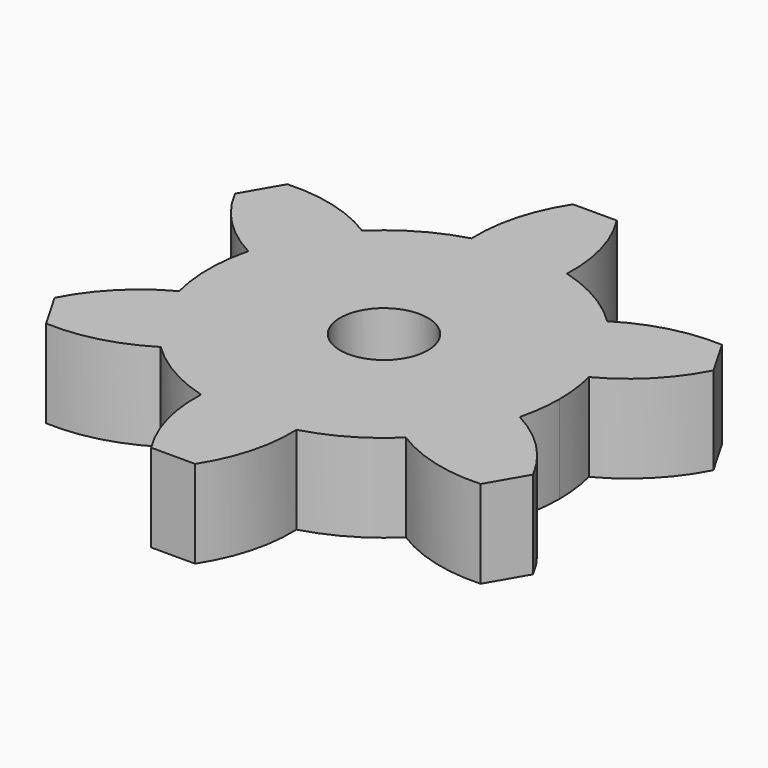
from build123d import *

# Parameters (mm, degrees)
F1_DEPTH = 2
F2_R     = 1
F3_DEPTH = 2.001


with BuildPart() as f1:
    # F0 (on Top) → F1 (new body)
    with BuildSketch(Plane.XY):
        with BuildLine():
            ThreePointArc((3.877013, -0.984261), (3.969134, -0.495958), (4, 0))
            ThreePointArc((4, 0), (3.969134, 0.495958), (3.877013, 0.984261))
            ThreePointArc((3.877013, 0.984261), (3.464102, 2), (2.790902, 2.865461))
            ThreePointArc((2.790902, 2.865461), (2, 3.464102), (1.086111, 3.849722))
            ThreePointArc((1.086111, 3.849722), (0.548229, 3.962252), (0, 4))
            ThreePointArc((0, 4), (-0.548229, 3.962252), (-1.086111, 3.849722))
            ThreePointArc((-1.086111, 3.849722), (-2, 3.464102), (-2.790902, 2.865461))
            ThreePointArc((-2.790902, 2.865461), (-3.464102, 2), (-3.877013, 0.984261))
            ThreePointArc((-3.877013, 0.984261), (-4, 0), (-3.877013, -0.984261))
            ThreePointArc((-3.877013, -0.984261), (-3.464102, -2), (-2.790902, -2.865461))
            ThreePointArc((-2.790902, -2.865461), (-2, -3.464102), (-1.086111, -3.849722))
            ThreePointArc((-1.086111, -3.849722), (0, -4), (1.086111, -3.849722))
            ThreePointArc((1.086111, -3.849722), (2, -3.464102), (2.790902, -2.865461))
            ThreePointArc((2.790902, -2.865461), (3.464102, -2), (3.877013, -0.984261))
        make_face()
        with BuildLine():
            ThreePointArc((2.790902, 2.865461), (3.464102, 2), (3.877013, 0.984261))
            ThreePointArc((3.877013, 0.984261), (4.783962, 1.654296), (5.446152, 2.566987))
            Line((5.446152, 2.566987), (5.196152, 3))
            Line((5.196152, 3), (4.946152, 3.433013))
            ThreePointArc((4.946152, 3.433013), (3.824643, 3.315885), (2.790902, 2.865461))
        make_face()
        with BuildLine():
            ThreePointArc((5.446152, -2.566987), (4.783962, -1.654296), (3.877013, -0.984261))
            ThreePointArc((3.877013, -0.984261), (3.464102, -2), (2.790902, -2.865461))
            ThreePointArc((2.790902, -2.865461), (3.824643, -3.315885), (4.946152, -3.433013))
            Line((4.946152, -3.433013), (5.196152, -3))
            Line((5.196152, -3), (5.446152, -2.566987))
        make_face()
        with BuildLine():
            ThreePointArc((0, 4), (0.548229, 3.962252), (1.086111, 3.849722))
            ThreePointArc((1.086111, 3.849722), (0.959319, 4.97018), (0.5, 6))
            Line((0.5, 6), (0, 6))
            Line((0, 6), (0, 4))
        make_face()
        with BuildLine():
            ThreePointArc((0.5, -6), (0.959319, -4.97018), (1.086111, -3.849722))
            ThreePointArc((1.086111, -3.849722), (0, -4), (-1.086111, -3.849722))
            ThreePointArc((-1.086111, -3.849722), (-0.959319, -4.97018), (-0.5, -6))
            Line((-0.5, -6), (0, -6))
            Line((0, -6), (0.5, -6))
        make_face()
        with BuildLine():
            ThreePointArc((-1.086111, 3.849722), (-0.548229, 3.962252), (0, 4))
            Line((0, 4), (0, 6))
            Line((0, 6), (-0.5, 6))
            ThreePointArc((-0.5, 6), (-0.959319, 4.97018), (-1.086111, 3.849722))
        make_face()
        with BuildLine():
            ThreePointArc((-4.946152, -3.433013), (-3.824643, -3.315885), (-2.790902, -2.865461))
            ThreePointArc((-2.790902, -2.865461), (-3.464102, -2), (-3.877013, -0.984261))
            ThreePointArc((-3.877013, -0.984261), (-4.783962, -1.654296), (-5.446152, -2.566987))
            Line((-5.446152, -2.566987), (-5.196152, -3))
            Line((-5.196152, -3), (-4.946152, -3.433013))
        make_face()
        with BuildLine():
            ThreePointArc((-3.877013, 0.984261), (-3.464102, 2), (-2.790902, 2.865461))
            ThreePointArc((-2.790902, 2.865461), (-3.824643, 3.315885), (-4.946152, 3.433013))
            Line((-4.946152, 3.433013), (-5.196152, 3))
            Line((-5.196152, 3), (-5.446152, 2.566987))
            ThreePointArc((-5.446152, 2.566987), (-4.783962, 1.654296), (-3.877013, 0.984261))
        make_face()
    extrude(amount=F1_DEPTH)

    # F2 (on face) → F3 (cut, through all)
    with BuildSketch(Plane.XY.offset(2)):
        Circle(F2_R)
    extrude(amount=-F3_DEPTH, mode=Mode.SUBTRACT)


solid = f1.part
